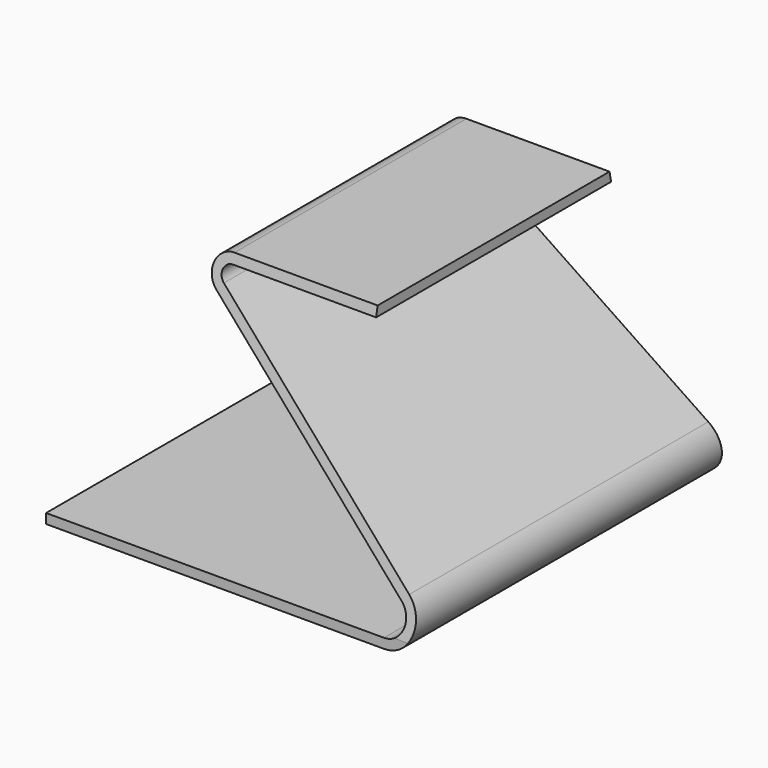
from build123d import *

# Parameters (mm, degrees)
F1_DEPTH = 254
F3_DEPTH = 254.001


with BuildPart() as f1:
    # F0 (on Front) → F1 (new body)
    with BuildSketch(Plane.XZ):
        with BuildLine():
            Line((-33.601042, 0), (-254, 0))
            Line((-254, 0), (-254, -6.35))
            Line((-254, -6.35), (-33.601042, -6.35))
            ThreePointArc((-33.601042, -6.35), (-15.781398, 5.964808), (-21.000651, 26.9875))
            Line((-21.000651, 26.9875), (-161.099089, 150.542708))
            ThreePointArc((-161.099089, 150.542708), (-162.838839, 157.550272), (-156.898958, 161.655208))
            Line((-156.898958, 161.655208), (-63.5, 161.655208))
            Line((-63.5, 161.655208), (-63.5, 168.005208))
            Line((-63.5, 168.005208), (-156.898958, 168.005208))
            ThreePointArc((-156.898958, 168.005208), (-168.778721, 159.795336), (-165.299219, 145.780208))
            Line((-165.299219, 145.780208), (-25.200781, 22.225))
            ThreePointArc((-25.200781, 22.225), (-21.721279, 8.209872), (-33.601042, 0))
        make_face()
    extrude(amount=F1_DEPTH)

    # F2 (on Right) → F3 (cut, through all)
    with BuildSketch(Plane.YZ):
        Polygon((-33.322264, 171.584085), (0, 0), (15.097735, 0), (15.097735, 171.584085), align=None)
        Polygon((-254.370093, 0), (-221.04783, 171.584085), (-269.467829, 171.584085), (-269.467829, 0), align=None)
    extrude(amount=-F3_DEPTH, mode=Mode.SUBTRACT)


solid = f1.part
